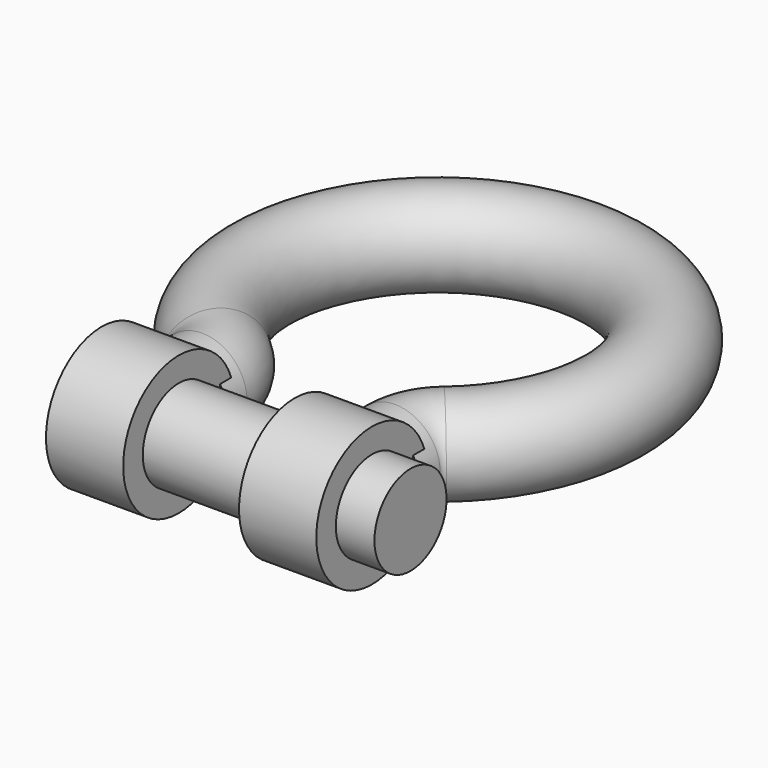
from build123d import *

# Parameters (mm, degrees)
F2_R     = 5.55625
F5_R     = 8.5725
F6_DEPTH = 4.7625
F8_R     = 5.55625
F9_DEPTH = 38.1


with BuildPart() as f3:
    # F3: sweep along a path in F0
    with BuildLine(Plane.XY) as f3_path:
        Line((-11.90625, -24.6450335324), (-11.90625, -21.4642974367))
        ThreePointArc((-11.90625, -21.4642974367), (-12.4922697511, -18.7998966242), (-14.142165493, -16.6272726623))
        ThreePointArc((-14.142165493, -16.6272726623), (0, 21.828125), (14.142165493, -16.6272726623))
        ThreePointArc((14.142165493, -16.6272726623), (12.4922697511, -18.7998966242), (11.90625, -21.4642974367))
        Line((11.90625, -21.4642974367), (11.90625, -24.6450335324))
    # F2 (on line) → F3 (sweep)
    with BuildSketch(Plane(origin=(0, -24.6450335324, 0), x_dir=(-1, 0, 0), z_dir=(0, 1, 0))):
        with Locations((11.90625, 0)):
            Circle(F2_R)
    sweep(path=f3_path.line)

    # F5 (on plane+point) → F6 (join, symmetric)
    with BuildSketch(Plane.YZ.offset(-11.90625)):
        with Locations((-30.9950335324, 0)):
            Circle(F5_R)
    extrude(amount=F6_DEPTH, both=True)

    # F7: F3 across plane


with BuildPart() as f3_1:
    add(f3.part)
    add(f3.part.mirror(Plane.YZ))

    # F8 (on face) → F9 (join)
    with BuildSketch(Plane(origin=(-16.66875, 0, 0), x_dir=(0, -1, 0), z_dir=(-1, 0, 0))):
        with Locations((30.9950335324, 0)):
            Circle(F8_R)
    extrude(amount=-F9_DEPTH)


solid = f3_1.part
